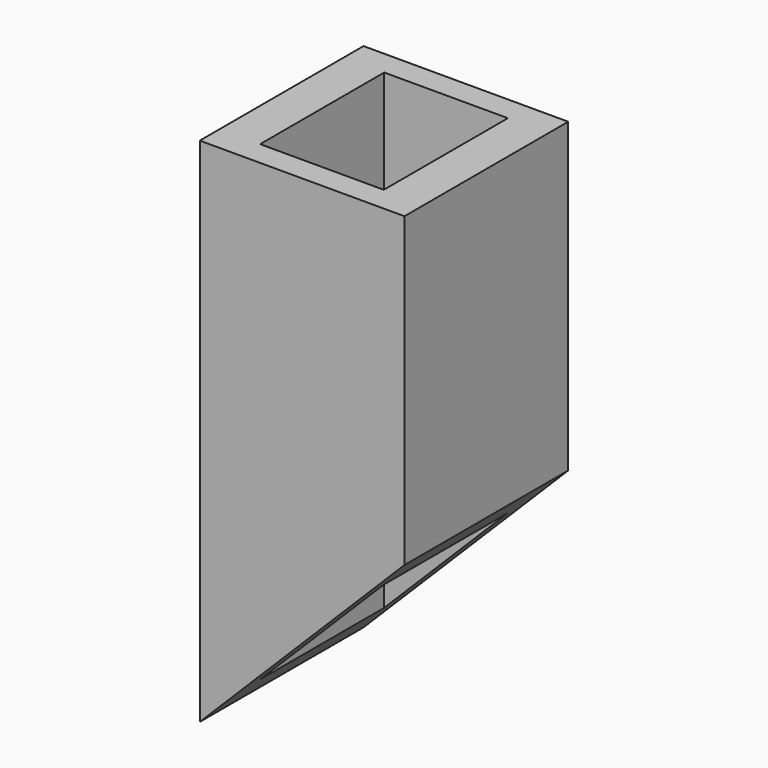
from build123d import *

# Parameters (mm, degrees)
F0_W      = 50.8
F0_H      = 50.8
F0_W_2    = 47.625
F0_H_2    = 47.625
F1_DEPTH  = 508
F3_DEPTH  = 50.801
F5_DEPTH  = 50.801
F7_W      = 101.6
F7_H      = 101.6
F7_W_2    = 61.3725754684
F7_H_2    = 76.9944727293
F8_DEPTH  = 254
F10_DEPTH = 101.601


with BuildPart() as f1:
    # F0 (on Top) → F1 (new body)
    with BuildSketch(Plane.XY):
        Rectangle(F0_W, F0_H)
        Rectangle(F0_W_2, F0_H_2, mode=Mode.SUBTRACT)
    extrude(amount=F1_DEPTH)

    # F2 (on face) → F3 (cut, through all)
    with BuildSketch(Plane.XZ.offset(25.4)):
        Polygon((25.4, 46.0020601749), (-25.4, 0), (25.4, 0), align=None)
    extrude(amount=-F3_DEPTH, mode=Mode.SUBTRACT)

    # F4 (on face) → F5 (cut, through all)
    with BuildSketch(Plane.XZ.offset(25.4)):
        Polygon((25.4, 508), (-25.4, 508), (25.4, 469.4332480431), align=None)
    extrude(amount=-F5_DEPTH, mode=Mode.SUBTRACT)


with BuildPart() as f8:
    # F7 (on Top) → F8 (new body)
    with BuildSketch(Plane.XY):
        Rectangle(F7_W, F7_H)
        Rectangle(F7_W_2, F7_H_2, mode=Mode.SUBTRACT)
    extrude(amount=F8_DEPTH)

    # F9 (on face) → F10 (cut, through all)
    with BuildSketch(Plane.XZ.offset(50.8)):
        Polygon((50.8, 101.6), (-50.8, 0), (50.8, 0), align=None)
    extrude(amount=-F10_DEPTH, mode=Mode.SUBTRACT)


solid = f8.part
